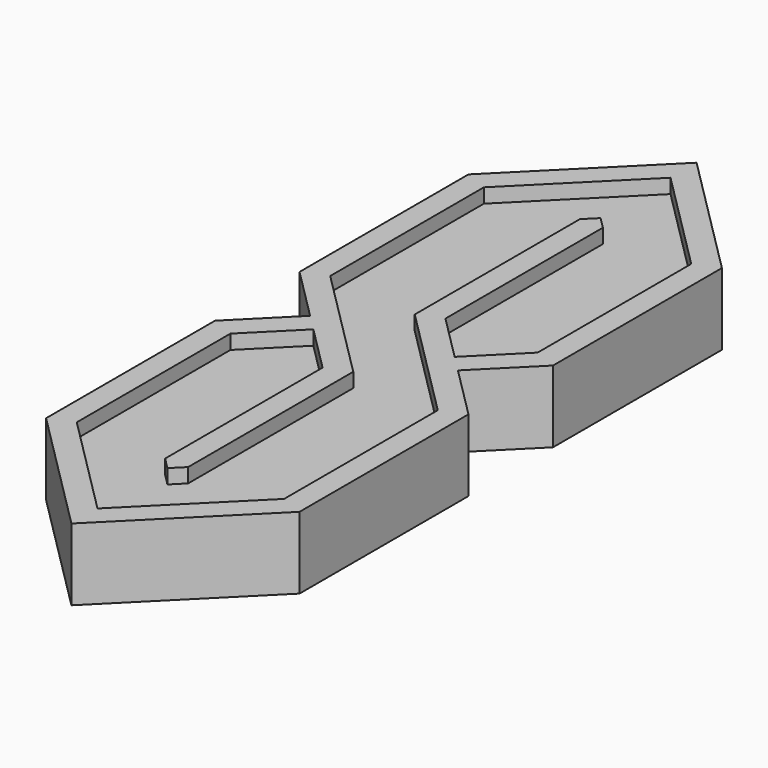
from build123d import *

# Parameters (mm, degrees)
F1_DEPTH = 12.7
F3_DEPTH = 15.875


with BuildPart() as f1:
    # F0 (on Top) → F1 (new body)
    with BuildSketch(Plane.XY):
        Polygon((-6.3896695265, 1.1289265677), (-6.3896695265, 46.6310290162), (-3.8496695265, 49.1710290162), (-1.3096695265, 46.6310290162), (-1.3096695265, 3.2331314646), (8.8503304735, -6.9268685354), (19.0103304735, 3.2331314646), (19.0103304735, 45.5789265677), (-3.8496695265, 68.4389265677), (-26.7096695265, 45.5789265677), (-26.7096695265, 3.2331314646), (-1.3096695265, -22.1668685354), (-1.3096695265, -67.6689709838), (-3.8496695265, -70.2089709838), (-6.3896695265, -67.6689709838), (-6.3896695265, -24.2710734323), (-16.5496695265, -14.1110734323), (-26.7096695265, -24.2710734323), (-26.7096695265, -66.6168685354), (-3.8496695265, -89.4768685354), (19.0103304735, -66.6168685354), (19.0103304735, -24.2710734323), align=None)
    extrude(amount=F1_DEPTH)


with BuildPart() as f3:
    # F2 (on Top) → F3 (new body)
    with BuildSketch(Plane.XY):
        Polygon((-3.8496695265, 72.0310290162), (-29.2496695265, 46.6310290162), (-29.2496695265, 2.1810290162), (-18.3457207507, -8.7229197596), (-16.5496695265, -10.5189709838), (-18.3457207507, -12.315022208), (-29.2496695265, -23.2189709838), (-29.2496695265, -67.6689709838), (-3.8496695265, -93.0689709838), (21.5503304735, -67.6689709838), (21.5503304735, -23.2189709838), (10.6463816977, -12.315022208), (8.8503304735, -10.5189709838), (10.6463816977, -8.7229197596), (21.5503304735, 2.1810290162), (21.5503304735, 46.6310290162), align=None)
        Polygon((-3.8496695265, 2.1810290162), (-3.8496695265, 46.6310290162), (-6.3896695265, 46.6310290162), (-6.3896695265, 1.1289265677), (19.0103304735, -24.2710734323), (19.0103304735, -66.6168685354), (-3.8496695265, -89.4768685354), (-26.7096695265, -66.6168685354), (-26.7096695265, -24.2710734323), (-16.5496695265, -14.1110734323), (-14.7536183023, -12.315022208), (-3.8496695265, -23.2189709838), (-3.8496695265, -67.6689709838), (-1.3096695265, -67.6689709838), (-1.3096695265, -22.1668685354), (-26.7096695265, 3.2331314646), (-26.7096695265, 45.5789265677), (-3.8496695265, 68.4389265677), (19.0103304735, 45.5789265677), (19.0103304735, 3.2331314646), (8.8503304735, -6.9268685354), (7.0542792493, -8.7229197596), align=None, mode=Mode.SUBTRACT)
        Polygon((-29.2496695265, 2.1810290162), (-29.2496695265, 46.6310290162), (-3.8496695265, 72.0310290162), (21.5503304735, 46.6310290162), (21.5503304735, 2.1810290162), (10.6463816977, -8.7229197596), (12.442432922, -10.5189709838), (24.0903304735, 1.1289265677), (24.0903304735, 47.6831314646), (-3.8496695265, 75.6231314646), (-31.7896695265, 47.6831314646), (-31.7896695265, 1.1289265677), (-20.1417719749, -10.5189709838), (-18.3457207507, -8.7229197596), align=None)
        Polygon((-18.3457207507, -12.315022208), (-20.1417719749, -10.5189709838), (-31.7896695265, -22.1668685354), (-31.7896695265, -68.7210734323), (-3.8496695265, -96.6610734323), (24.0903304735, -68.7210734323), (24.0903304735, -22.1668685354), (12.442432922, -10.5189709838), (10.6463816977, -12.315022208), (21.5503304735, -23.2189709838), (21.5503304735, -67.6689709838), (-3.8496695265, -93.0689709838), (-29.2496695265, -67.6689709838), (-29.2496695265, -23.2189709838), align=None)
        Polygon((-14.7536183023, -12.315022208), (-16.5496695265, -14.1110734323), (-6.3896695265, -24.2710734323), (-6.3896695265, -67.6689709838), (-3.8496695265, -67.6689709838), (-3.8496695265, -23.2189709838), align=None)
        Polygon((-1.3096695265, 46.6310290162), (-3.8496695265, 46.6310290162), (-3.8496695265, 2.1810290162), (7.0542792493, -8.7229197596), (8.8503304735, -6.9268685354), (-1.3096695265, 3.2331314646), align=None)
        Polygon((-16.5496695265, -10.5189709838), (-18.3457207507, -8.7229197596), (-20.1417719749, -10.5189709838), (-18.3457207507, -12.315022208), align=None)
        Polygon((12.442432922, -10.5189709838), (10.6463816977, -8.7229197596), (8.8503304735, -10.5189709838), (10.6463816977, -12.315022208), align=None)
        Polygon((-6.3896695265, 46.6310290162), (-3.8496695265, 46.6310290162), (-1.3096695265, 46.6310290162), (-3.8496695265, 49.1710290162), align=None)
        Polygon((-3.8496695265, -70.2089709838), (-1.3096695265, -67.6689709838), (-3.8496695265, -67.6689709838), (-6.3896695265, -67.6689709838), align=None)
    extrude(amount=F3_DEPTH)


solid = Compound([f1.part, f3.part])
